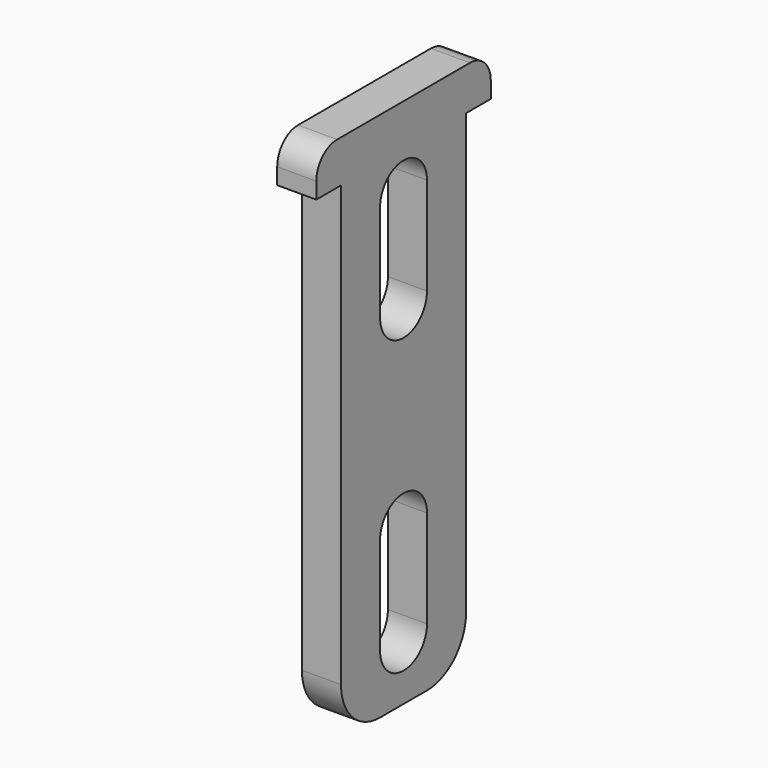
from build123d import *

# Parameters (mm, degrees)
F2_DEPTH      = 1.2
F3_DEPTH      = 1.201
F3_DEPTH_BACK = 1.201
F4_R          = 1.6
F5_R          = 3


with BuildPart() as f2:
    # F0 (on Right) → F2 (new body, symmetric)
    with BuildSketch(Plane.YZ):
        Polygon((6.7, 3.6), (-6.7, 3.6), (-6.7, 1), (-4.8, 1), (-4.8, -29), (4.8, -29), (4.8, 1), (6.7, 1), align=None)
    extrude(amount=F2_DEPTH, both=True)

    # F1 (on Right) → F3 (cut, two sides)
    with BuildSketch(Plane.YZ) as f3_sk:
        with BuildLine():
            Line((1.8, -7.4), (1.8, -1.4))
            ThreePointArc((1.8, -1.4), (0, 0.4), (-1.8, -1.4))
            Line((-1.8, -1.4), (-1.8, -7.4))
            ThreePointArc((-1.8, -7.4), (0, -9.2), (1.8, -7.4))
        make_face()
        with BuildLine():
            Line((1.8, -25.4), (1.8, -19.4))
            ThreePointArc((1.8, -19.4), (0, -17.6), (-1.8, -19.4))
            Line((-1.8, -19.4), (-1.8, -25.4))
            ThreePointArc((-1.8, -25.4), (0, -27.2), (1.8, -25.4))
        make_face()
    extrude(amount=-F3_DEPTH, mode=Mode.SUBTRACT)
    extrude(f3_sk.sketch, amount=F3_DEPTH_BACK, mode=Mode.SUBTRACT)

    # F4
    f4_edges = [f2.edges().sort_by_distance(p)[0] for p in [
        (0, 6.7, 3.6),
        (0, -6.7, 3.6),
    ]]
    fillet(f4_edges, radius=F4_R)

    # F5
    f5_edges = [f2.edges().sort_by_distance(p)[0] for p in [
        (0, 4.8, -29),
        (0, -4.8, -29),
    ]]
    fillet(f5_edges, radius=F5_R)


solid = f2.part
